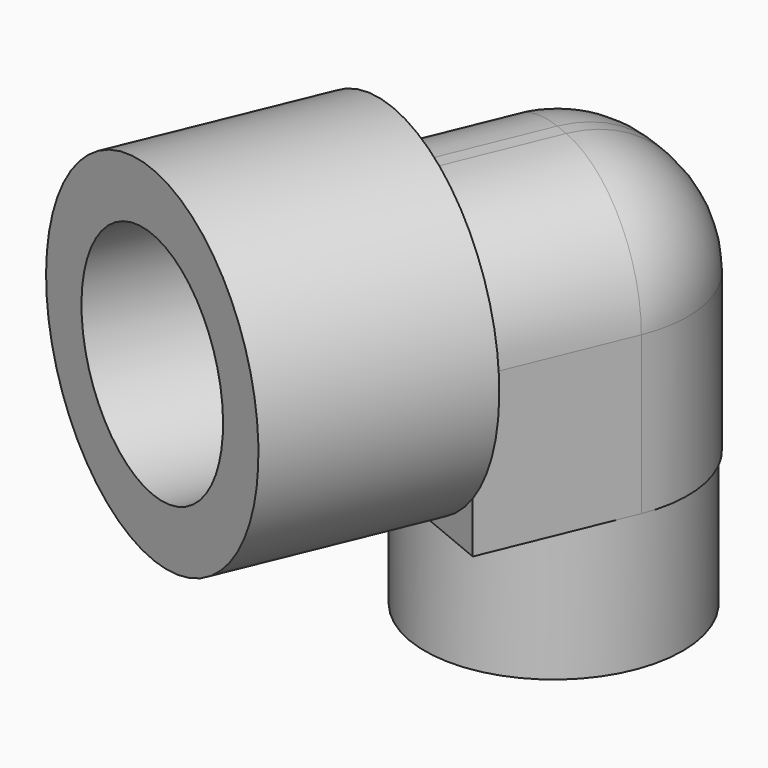
from build123d import *

# Parameters (mm, degrees)
CYLINDER021_R               = 5
CYLINDER021_DEPTH           = 25
CYLINDER022_R               = 5
CYLINDER022_DEPTH           = 15
CYLINDER020_R               = 9
CYLINDER020_DEPTH           = 9.5
BOX007_W                    = 19
BOX007_H                    = 18
BOX007_DEPTH                = 19.5
FILLET_R                    = 8.5
CYLINDER024_R               = 5
CYLINDER024_DEPTH           = 2.5
CYLINDER019_R               = 12
CYLINDER019_DEPTH           = 2.5
CYLINDER027_R               = 8
CYLINDER027_DEPTH           = 12.5
CYLINDER026_R               = 12
CYLINDER026_DEPTH           = 12.5
CYLINDER026_PLACEMENT_ANGLE = 1
FUSION025_PLACEMENT_ANGLE   = 90
FUSION_PLACEMENT_ANGLE      = 112.48


with BuildPart() as obj1_hole:
    # Cylinder021 → Cylinder021 (new body)
    with BuildSketch(Plane.XY):
        Circle(CYLINDER021_R)
    extrude(amount=CYLINDER021_DEPTH)


with BuildPart() as obj2:
    # Cylinder022 → Cylinder022 (new body)
    with BuildSketch(Plane(origin=(-5, 0, 21), x_dir=(0, 0, -1), z_dir=(1, 0, 0))):
        Circle(CYLINDER022_R)
    extrude(amount=CYLINDER022_DEPTH)

    # Fusion016: union obj1_hole
    add(obj1_hole.part)


with BuildPart() as obj1:
    # Cylinder020 → Cylinder020 (new body)
    with BuildSketch(Plane.XY):
        Circle(CYLINDER020_R)
    extrude(amount=CYLINDER020_DEPTH)


with BuildPart() as obj3:
    # Box007 → Box007 (new body)
    with BuildSketch(Plane(origin=(-9, -9, 9.5), x_dir=(1, 0, 0), z_dir=(0, 0, 1))):
        with Locations((9.5, 9)):
            Rectangle(BOX007_W, BOX007_H)
    extrude(amount=BOX007_DEPTH)

    # Fillet
    fillet_edges = [obj3.edges().sort_by_distance(p)[0] for p in [
        (-9, -9, 19.25),
        (-9, 0, 29),
        (-9, 9, 19.25),
        (0.5, -9, 29),
        (0.5, 9, 29),
    ]]
    fillet(fillet_edges, radius=FILLET_R)

    # Fusion018: union obj1
    add(obj1.part)

    # Cut013: cut obj2
    add(obj2.part, mode=Mode.SUBTRACT)


with BuildPart() as largeplughole:
    # Cylinder024 → Cylinder024 (new body)
    with BuildSketch(Plane.XY):
        Circle(CYLINDER024_R)
    extrude(amount=CYLINDER024_DEPTH)


with BuildPart() as largeplugbase001:
    # Cylinder019 → Cylinder019 (new body)
    with BuildSketch(Plane.XY):
        Circle(CYLINDER019_R)
    extrude(amount=CYLINDER019_DEPTH)

    # Cut008: cut LargePlugHole
    add(largeplughole.part, mode=Mode.SUBTRACT)


with BuildPart() as largeplugwallhole:
    # Cylinder027 → Cylinder027 (new body)
    with BuildSketch(Plane.XY.offset(2.5)):
        Circle(CYLINDER027_R)
    extrude(amount=CYLINDER027_DEPTH)


with BuildPart() as obj4:
    # Cylinder026 → Cylinder026 (new body)
    with BuildSketch(Plane.XY):
        Circle(CYLINDER026_R)
    extrude(amount=CYLINDER026_DEPTH)


with BuildPart() as obj4_1:
    # Cylinder026 placement: moved
    add(obj4.part.moved(Location((0, 0, 2.5))).rotate(Axis((0, 0, 2.5), (0, 0, 1)), CYLINDER026_PLACEMENT_ANGLE))

    # Cut007: cut LargePlugWallHole
    add(largeplugwallhole.part, mode=Mode.SUBTRACT)

    # Fusion025: union LargePlugBase001
    add(largeplugbase001.part)


with BuildPart() as obj4_2:
    # Fusion025 placement: moved
    add(obj4_1.part.moved(Location((10, 0, 21))).rotate(Axis((10, 0, 21), (0, 1, 0)), FUSION025_PLACEMENT_ANGLE))

    # Fusion: union obj3
    add(obj3.part)


with BuildPart() as obj4_3:
    # Fusion placement: moved
    add(obj4_2.part.moved(Location((78, -192.25, 94))).rotate(Axis((78, -192.25, 94), (0, 0, -1)), FUSION_PLACEMENT_ANGLE))


solid = obj4_3.part
